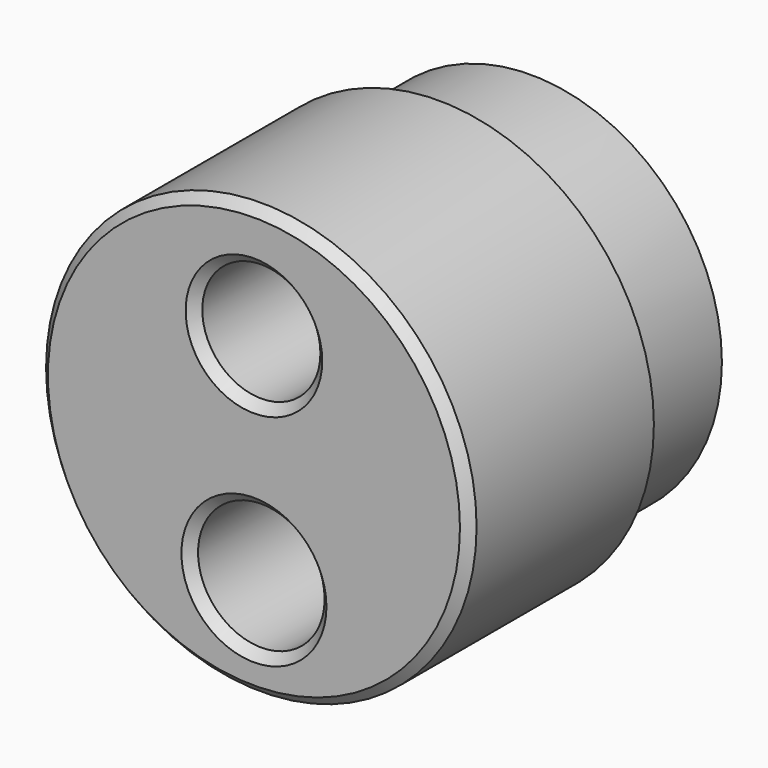
from build123d import *

# Parameters (mm, degrees)
F0_R     = 46.620662
F0_R_2   = 13.705086
F0_R_3   = 12.792455
F1_DEPTH = 50
F2_SIZE  = 2
F3_R     = 41.354393
F4_DEPTH = 25


with BuildPart() as f1:
    # F0 (on Front) → F1 (new body)
    with BuildSketch(Plane.XZ):
        Circle(F0_R)
        with Locations((0, -24.502814)):
            Circle(F0_R_2, mode=Mode.SUBTRACT)
        with Locations((0, 22.052526)):
            Circle(F0_R_3, mode=Mode.SUBTRACT)
    extrude(amount=F1_DEPTH)

    # F2
    f2_edges = [f1.edges().sort_by_distance(p)[0] for p in [
        (-46.620662, -50, 0),
        (-13.705086, -50, -24.502814),
        (-12.792455, -50, 22.052526),
    ]]
    chamfer(f2_edges, length=F2_SIZE)

    # F3 (on Front) → F4 (join)
    with BuildSketch(Plane.XZ):
        Circle(F3_R)
    extrude(amount=-F4_DEPTH)


solid = f1.part
